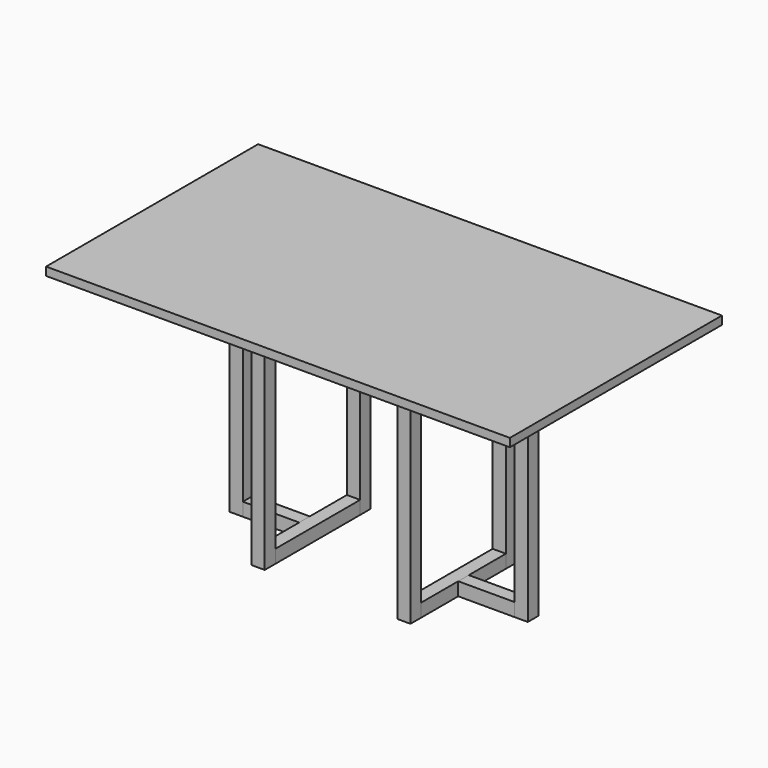
from build123d import *

# Parameters (mm, degrees)
F0_W      = 40
F0_H      = 40
F1_DEPTH  = 700
F3_W      = 40
F3_H      = 40
F4_DEPTH  = 320
F7_DEPTH  = 170
F10_DEPTH = 170
F12_W     = 1400
F12_H     = 800
F13_DEPTH = 25


with BuildPart() as f1:
    # F0 (on Top) → F1 (new body)
    with BuildSketch(Plane.XY):
        with Locations((-920, 580)):
            Rectangle(F0_W, F0_H)
    extrude(amount=F1_DEPTH)


with BuildPart() as f1b:
    # F0 (on Top) → F1, piece 2 (new body)
    with BuildSketch(Plane.XY):
        Polygon((-1150, 420), (-1150, 400), (-1150, 380), (-1110, 380), (-1110, 420), align=None)
    extrude(amount=F1_DEPTH)


with BuildPart() as f1c:
    # F0 (on Top) → F1, piece 3 (new body)
    with BuildSketch(Plane.XY):
        with Locations((-920, 220)):
            Rectangle(F0_W, F0_H)
    extrude(amount=F1_DEPTH)


with BuildPart() as f1d:
    # F0 (on Top) → F1, piece 4 (new body)
    with BuildSketch(Plane.XY):
        Polygon((-250, 400), (-250, 420), (-290, 420), (-290, 380), (-250, 380), align=None)
    extrude(amount=F1_DEPTH)


with BuildPart() as f1e:
    # F0 (on Top) → F1, piece 5 (new body)
    with BuildSketch(Plane.XY):
        with Locations((-480, 580)):
            Rectangle(F0_W, F0_H)
    extrude(amount=F1_DEPTH)


with BuildPart() as f1f:
    # F0 (on Top) → F1, piece 6 (new body)
    with BuildSketch(Plane.XY):
        with Locations((-480, 220)):
            Rectangle(F0_W, F0_H)
    extrude(amount=F1_DEPTH)


with BuildPart() as f4:
    # F3 (on offset) → F4 (new body)
    with BuildSketch(Plane(origin=(0, 240, 0), x_dir=(-1, 0, 0), z_dir=(0, 1, 0))):
        with Locations((480, 20)):
            Rectangle(F3_W, F3_H)
    extrude(amount=F4_DEPTH)


with BuildPart() as f4b:
    # F3 (on offset) → F4, piece 2 (new body)
    with BuildSketch(Plane(origin=(0, 240, 0), x_dir=(-1, 0, 0), z_dir=(0, 1, 0))):
        with Locations((920, 20)):
            Rectangle(F3_W, F3_H)
    extrude(amount=F4_DEPTH)


with BuildPart() as f7:
    # F6 (on offset) → F7 (new body)
    with BuildSketch(Plane(origin=(-290, 0, 0), x_dir=(0, -1, 0), z_dir=(-1, 0, 0))):
        Polygon((-420, 0), (-400, 0), (-380, 0), (-380, 40), (-420, 40), align=None)
    extrude(amount=F7_DEPTH)


with BuildPart() as f10:
    # F9 (on offset) → F10 (new body)
    with BuildSketch(Plane.YZ.offset(-1110)):
        Polygon((380, 0), (400, 0), (420, 0), (420, 40), (380, 40), align=None)
    extrude(amount=F10_DEPTH)


with BuildPart() as f13:
    # F12 (on offset) → F13 (new body)
    with BuildSketch(Plane.XY.offset(700)):
        with Locations((-700, 400)):
            Rectangle(F12_W, F12_H)
    extrude(amount=F13_DEPTH)


solid = Compound([f1.part, f1b.part, f1c.part, f1d.part, f1e.part, f1f.part, f4.part, f4b.part, f7.part, f10.part, f13.part])
